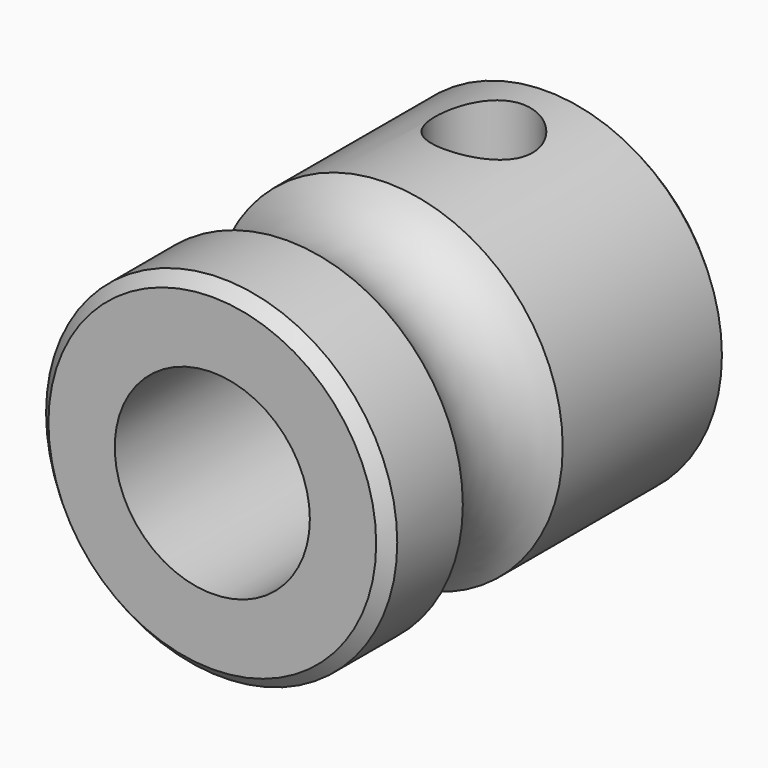
from build123d import *

# Parameters (mm, degrees)
F0_R     = 4.5
F0_R_2   = 2.5
F1_DEPTH = 5.5
F2_R     = 1.9308823529
F6_D     = 2.5
F6_DEPTH = 4.5
F6_START = 0.177096
F6_TIP   = 0.7510757738
F7_SIZE  = 0.3


with BuildPart() as f1:
    # F0 (on Front) → F1 (new body, symmetric)
    with BuildSketch(Plane.XZ):
        Circle(F0_R)
        Circle(F0_R_2, mode=Mode.SUBTRACT)
    extrude(amount=F1_DEPTH, both=True)

    # F2 (on Right) → F3 (revolve, cut)
    with BuildSketch(Plane.YZ):
        with Locations((-1.5, 5.5808823529)):
            Circle(F2_R)
    revolve(axis=Axis((0, 0, 0), (0, -1, 0)), mode=Mode.SUBTRACT)

    # F6
    # its depths count from where the whole tool has entered the part; down to there all is cleared
    with Locations(Plane.XY.offset(4.5).offset(-F6_START)):
        with Locations((0, 3.2)):
            Hole(F6_D / 2, depth=F6_DEPTH)
            with Locations((0, 0, -(F6_DEPTH + F6_TIP / 2))):  # 118° drill point
                Cone(0, F6_D / 2, F6_TIP, mode=Mode.SUBTRACT)

    # F7
    f7_edges = [f1.edges().sort_by_distance(p)[0] for p in [
        (-4.5, -5.5, 0),
        (-4.5, 5.5, 0),
    ]]
    chamfer(f7_edges, length=F7_SIZE)


solid = f1.part
